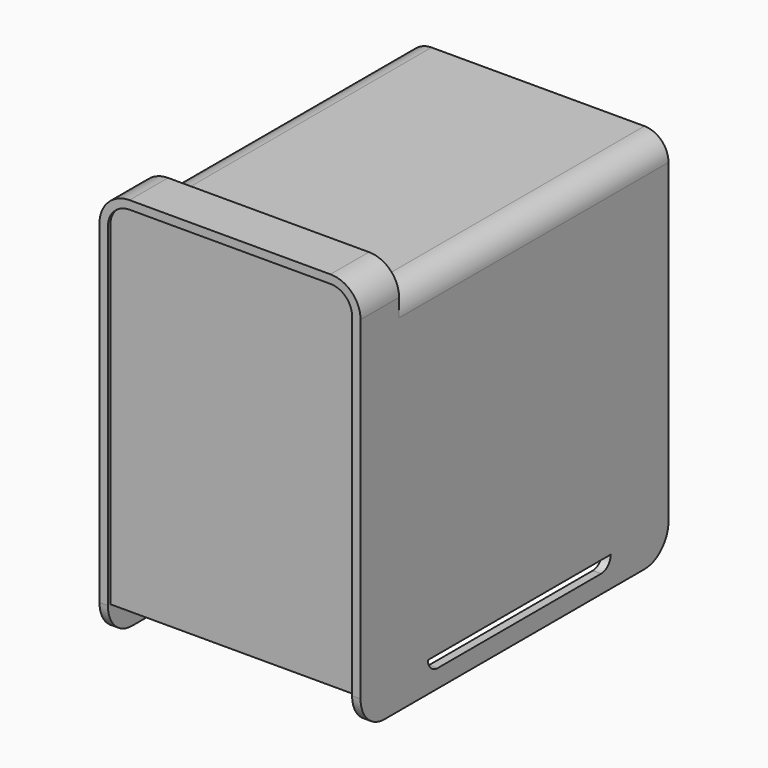
from build123d import *

# Parameters (mm, degrees)
F0_W      = 275.59
F0_H      = 416.052
F1_DEPTH  = 406.4
F3_DEPTH  = 406.401
F4_W      = 355.6
F4_H      = 25.4
F5_DEPTH  = 275.591
F6_R      = 31.75
F7_R      = 25.4
F8_R      = 31.75
F10_DEPTH = 3.175


with BuildPart() as f1:
    # F0 (on Front) → F1 (new body)
    with BuildSketch(Plane.XZ):
        with Locations((137.795, 208.026)):
            Rectangle(F0_W, F0_H)
    extrude(amount=-F1_DEPTH)

    # F2 (on face) → F3 (cut, through all)
    with BuildSketch(Plane.XZ):
        Polygon((8.89, 31.75), (8.89, 0), (137.795, 0), (266.7, 0), (266.7, 31.75), (137.795, 31.75), align=None)
    extrude(amount=-F3_DEPTH, mode=Mode.SUBTRACT)

    # F4 (on face) → F5 (cut, through all)
    with BuildSketch(Plane(origin=(0, 0, 0), x_dir=(0, -1, 0), z_dir=(-1, 0, 0))):
        with Locations((-228.6, 403.352)):
            Rectangle(F4_W, F4_H)
        with BuildLine():
            ThreePointArc((-330.2, 31.75), (-326.480256, 22.769744), (-317.5, 19.05))
            Line((-317.5, 19.05), (-101.6, 19.05))
            ThreePointArc((-101.6, 19.05), (-92.619744, 22.769744), (-88.9, 31.75))
            Line((-88.9, 31.75), (-330.2, 31.75))
        make_face()
    extrude(amount=-F5_DEPTH, mode=Mode.SUBTRACT)

    # F6
    f6_edges = [f1.edges().sort_by_distance(p)[0] for p in [
        (4.445, 406.4, 0),
        (271.145, 406.4, 0),
        (271.145, 0, 0),
        (4.445, 0, 0),
    ]]
    fillet(f6_edges, radius=F6_R)

    # F7
    f7_edges = [f1.edges().sort_by_distance(p)[0] for p in [
        (0, 228.6, 390.652),
        (275.59, 228.6, 390.652),
    ]]
    fillet(f7_edges, radius=F7_R)

    # F8
    f8_edges = [f1.edges().sort_by_distance(p)[0] for p in [
        (275.59, 25.4, 416.052),
        (0, 25.4, 416.052),
    ]]
    fillet(f8_edges, radius=F8_R)

    # F9 (on face) → F10 (cut)
    with BuildSketch(Plane.XZ):
        with BuildLine():
            Line((8.89, 384.302), (8.89, 31.75))
            Line((8.89, 31.75), (266.7, 31.75))
            Line((266.7, 31.75), (266.7, 384.302))
            ThreePointArc((266.7, 384.302), (260.004461, 400.466461), (243.84, 407.162))
            Line((243.84, 407.162), (31.75, 407.162))
            ThreePointArc((31.75, 407.162), (15.585539, 400.466461), (8.89, 384.302))
        make_face()
    extrude(amount=-F10_DEPTH, mode=Mode.SUBTRACT)


solid = f1.part
